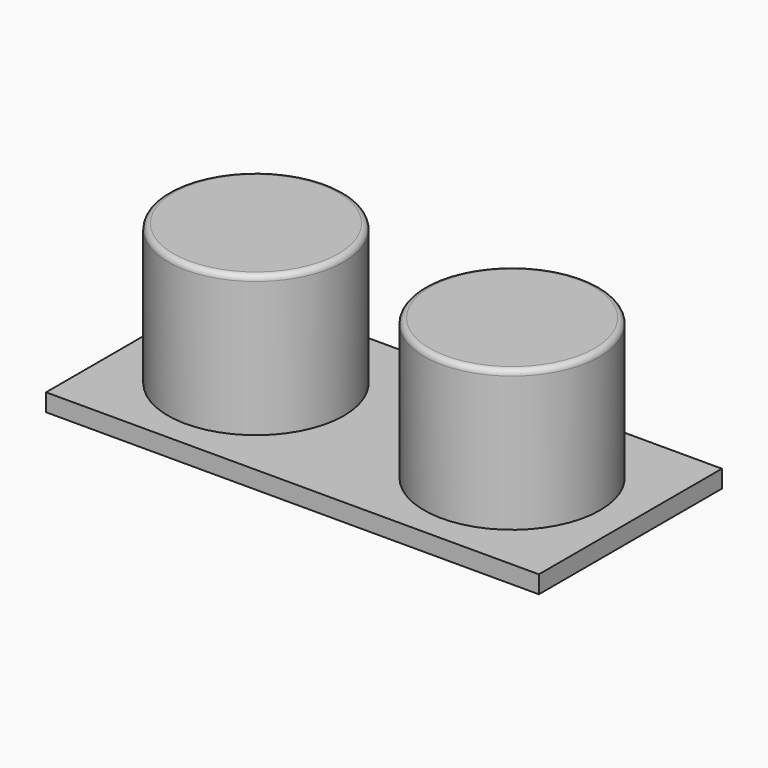
from build123d import *

# Parameters (mm, degrees)
F0_W     = 44.45
F0_H     = 20.6375
F0_R     = 7.9375
F1_DEPTH = 1.5875
F2_DEPTH = 14.2875
F3_R     = 0.5


with BuildPart() as f1:
    # F0 (on Top) → F1 (new body)
    with BuildSketch(Plane.XY):
        Rectangle(F0_W, F0_H)
        with Locations((-11.551156, 0)):
            Circle(F0_R, mode=Mode.SUBTRACT)
        with Locations((11.551156, 0)):
            Circle(F0_R, mode=Mode.SUBTRACT)
        with Locations((-11.551156, 0)):
            Circle(F0_R)
        with Locations((11.551156, 0)):
            Circle(F0_R)
    extrude(amount=F1_DEPTH)

    # F0 (on Top) → F2 (join)
    with BuildSketch(Plane.XY):
        with Locations((-11.551156, 0)):
            Circle(F0_R)
        with Locations((11.551156, 0)):
            Circle(F0_R)
    extrude(amount=F2_DEPTH)

    # F3
    f3_edges = [f1.edges().sort_by_distance(p)[0] for p in [
        (-19.488656, 0, 14.2875),
        (3.613656, 0, 14.2875),
    ]]
    fillet(f3_edges, radius=F3_R)


solid = f1.part
